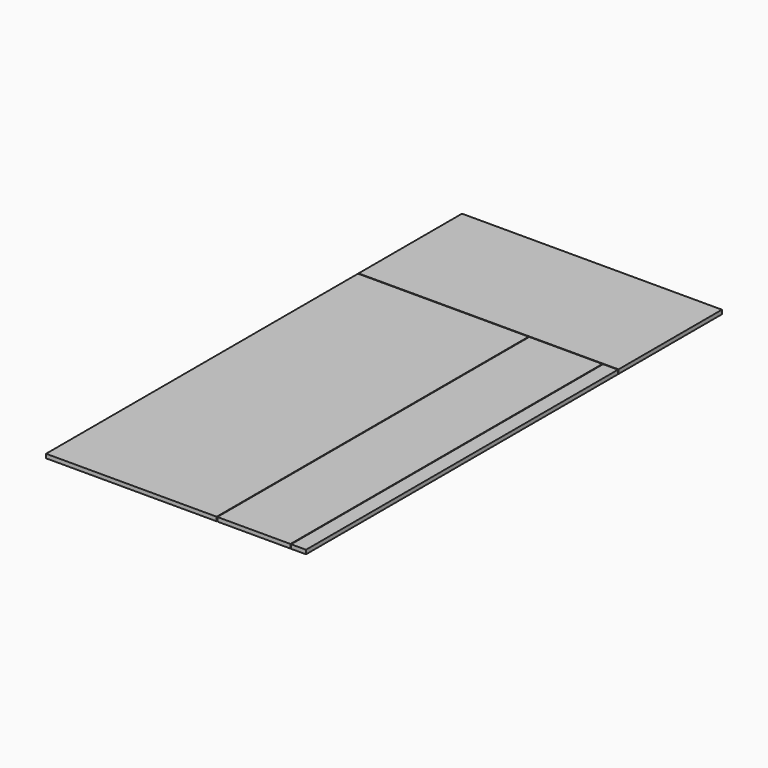
from build123d import *

# Parameters (mm, degrees)
F0_W     = 1219.2
F0_H     = 2438.4
F1_DEPTH = 19.05
F2_W     = 3.175
F2_H     = 1828.8
F3_DEPTH = 19.05


with BuildPart() as f1:
    # F0 (on Top) → F1 (new body)
    with BuildSketch(Plane.XY):
        Rectangle(F0_W, F0_H)
    extrude(amount=F1_DEPTH)

    # F2 (on face) → F3 (cut, through all)
    with BuildSketch(Plane.XY.offset(19.05)):
        Polygon((-609.6, 612.775), (-609.6, 609.6), (190.5, 609.6), (193.675, 609.6), (536.575, 609.6), (539.75, 609.6), (609.6, 609.6), (609.6, 612.775), align=None)
        with Locations((192.0875, -304.8)):
            Rectangle(F2_W, F2_H)
        with Locations((538.1625, -304.8)):
            Rectangle(F2_W, F2_H)
    extrude(amount=-F3_DEPTH, mode=Mode.SUBTRACT)


solid = f1.part
